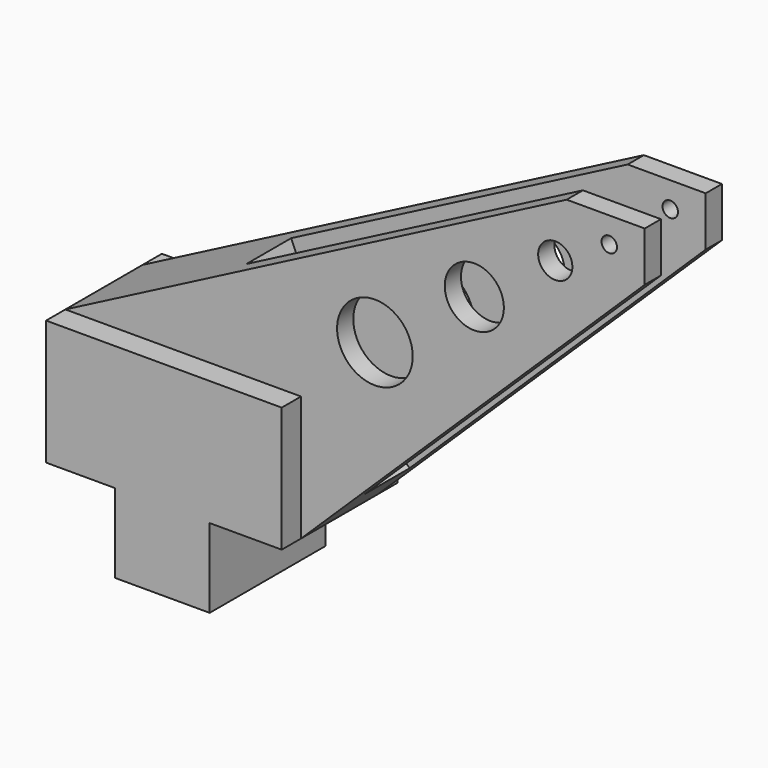
from build123d import *

# Parameters (mm, degrees)
F0_W     = 12.446
F0_H     = 10.407103
F1_DEPTH = 9.525
F0_R     = 4.977641
F0_R_2   = 3.889953
F0_R_3   = 2.251045
F0_R_4   = 1.016
F2_DEPTH = 6.35
F3_R     = 53.54887
F4_DEPTH = 3.683


with BuildPart() as f1:
    # F0 (on Front) → F1 (new body, symmetric)
    with BuildSketch(Plane.XZ):
        with Locations((0.093849, -5.203551)):
            Rectangle(F0_W, F0_H)
        Polygon((-15.216706, 0), (-6.129151, 0), (6.316849, 0), (15.799515, 0), (15.799515, 16.460452), (-15.216706, 16.460452), align=None)
    extrude(amount=F1_DEPTH, both=True)

    # F0 (on Front) → F2 (join, symmetric)
    with BuildSketch(Plane.XZ):
        Polygon((15.799515, 16.460452), (15.799515, 0), (61.039747, 44.118228), (61.039747, 50.637562), (50.766855, 50.637562), (-15.216706, 16.460452), align=None)
        with Locations((25.522564, 25.88735)):
            Circle(F0_R, mode=Mode.SUBTRACT)
        with Locations((38.608313, 35.421252)):
            Circle(F0_R_2, mode=Mode.SUBTRACT)
        with Locations((49.263846, 43.085761)):
            Circle(F0_R_3, mode=Mode.SUBTRACT)
        with Locations((56.371078, 47.273841)):
            Circle(F0_R_4, mode=Mode.SUBTRACT)
    extrude(amount=F2_DEPTH, both=True)

    # F3 (on Front) → F4 (cut, symmetric)
    with BuildSketch(Plane.XZ):
        with Locations((56.307051, 47.28929)):
            Circle(F3_R)
    extrude(amount=F4_DEPTH, both=True, mode=Mode.SUBTRACT)


solid = f1.part
